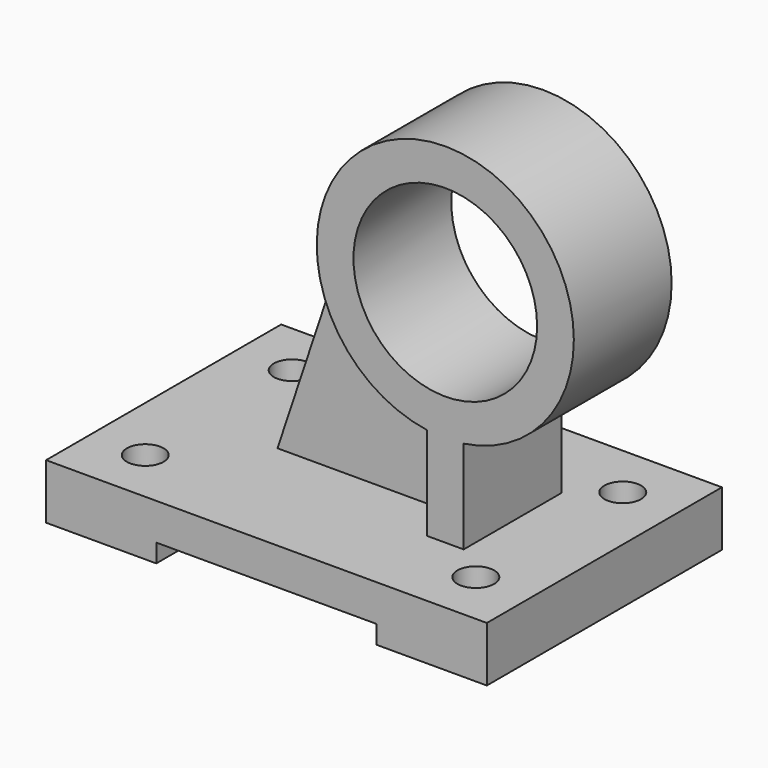
from build123d import *

# Parameters (mm, degrees)
F0_W      = 120
F0_H      = 80
F1_DEPTH  = 15
F2_W      = 60
F2_H      = 10
F3_DEPTH  = 80.001
F5_D      = 10
F7_DEPTH  = 60
F8_R      = 35
F9_DEPTH  = 33.282083
F10_R     = 25
F11_DEPTH = 56.642041
F13_DEPTH = 25


with BuildPart() as f1:
    # F0 (on Top) → F1 (new body)
    with BuildSketch(Plane.XY):
        Rectangle(F0_W, F0_H)
    extrude(amount=F1_DEPTH)

    # F2 (on face) → F3 (cut, through all)
    with BuildSketch(Plane.XZ.offset(40)):
        Rectangle(F2_W, F2_H)
    extrude(amount=-F3_DEPTH, mode=Mode.SUBTRACT)

    # F5 (through all)
    with Locations(Plane.XY.offset(15)):
        with Locations((-45, 25), (45, 25), (-45, -25), (45, -25)):
            Hole(F5_D / 2)

    # F6 (on face) → F7 (join)
    with BuildSketch(Plane.XY.offset(15)):
        Polygon((-25, -5), (25, -5), (25, -16.641041), (35, -16.641041), (35, -5), (35, 5), (35, 16.641041), (25, 16.641041), (25, 5), (-25, 5), align=None)
    extrude(amount=F7_DEPTH)

    # F8 (on face) → F9 (join, through all)
    with BuildSketch(Plane.XZ.offset(16.641041)):
        with Locations((30, 75)):
            Circle(F8_R)
    extrude(amount=-F9_DEPTH)

    # F10 (on face) → F11 (cut, through all)
    with BuildSketch(Plane.XZ.offset(16.641041)):
        with Locations((30, 75)):
            Circle(F10_R)
    extrude(amount=-F11_DEPTH, mode=Mode.SUBTRACT)

    # F12 (on face) → F13 (cut)
    with BuildSketch(Plane.XZ.offset(5)):
        Polygon((-25, 16.937228), (-25, 15), (-5, 75), (-25, 75), align=None)
    extrude(amount=-F13_DEPTH, mode=Mode.SUBTRACT)


solid = f1.part
